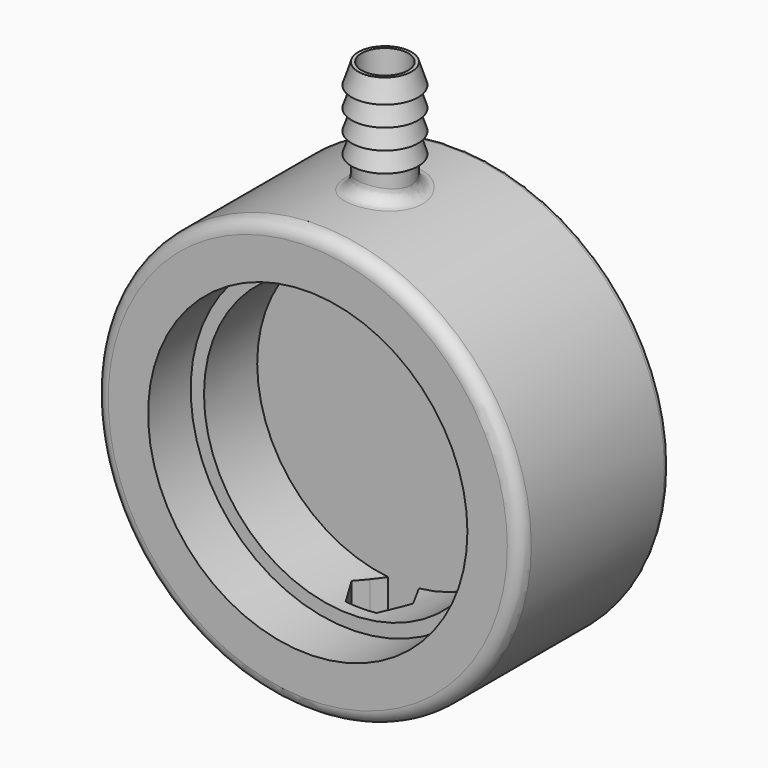
from build123d import *

# Parameters (mm, degrees)
F0_R           = 50.8
F1_DEPTH       = 44.45
F2_R           = 34.925
F3_DEPTH       = 28.575
F4_R           = 38.1
F5_DEPTH       = 12.7
F8_R           = 3.175
F9_R           = 1.5875
F12_DEPTH      = 25.4
F13_R          = 5.55625
F14_DEPTH      = 17.4625
F15_R          = 6.35
F15_R_2        = 5.55625
F16_DEPTH      = 26.67
F20_R          = 3.175
F22_W          = 73.025
F22_H          = 50.8
F23_DEPTH      = 9.525
F22_W_2        = 79.375
F22_H_2        = 57.15
F24_DEPTH      = 3.175
F24_DEPTH_BACK = 25.4


with BuildPart() as f1:
    # F0 (on Front) → F1 (new body)
    with BuildSketch(Plane.XZ):
        Circle(F0_R)
    extrude(amount=-F1_DEPTH)

    # F2 (on Front) → F3 (cut)
    with BuildSketch(Plane.XZ):
        Circle(F2_R)
    extrude(amount=-F3_DEPTH, mode=Mode.SUBTRACT)

    # F4 (on Front) → F5 (cut)
    with BuildSketch(Plane.XZ):
        Circle(F4_R)
    extrude(amount=-F5_DEPTH, mode=Mode.SUBTRACT)

    # F8
    f8_edges = [f1.edges().sort_by_distance(p)[0] for p in [
        (-50.8, 0, 0),
    ]]
    fillet(f8_edges, radius=F8_R)

    # F9
    f9_edges = [f1.edges().sort_by_distance(p)[0] for p in [
        (-50.8, 44.45, 0),
    ]]
    fillet(f9_edges, radius=F9_R)

    # F11 (on offset) → F12 (cut)
    with BuildSketch(Plane.XY.offset(-50.8)):
        with BuildLine():
            ThreePointArc((5.4992612052, 19.0499998116), (6.1336289688, 20.5814989585), (6.35, 22.225))
            ThreePointArc((6.35, 22.225), (6.1336290298, 23.8685008137), (5.4992614411, 25.3999997799))
            ThreePointArc((5.4992614411, 25.3999997799), (3.17500011, 27.7242612505), (0, 28.575))
            ThreePointArc((0, 28.575), (-3.1749999058, 27.7242613684), (-5.4992612052, 25.4000001884))
            ThreePointArc((-5.4992612052, 25.4000001884), (-6.35, 22.2249999281), (-5.4992611333, 19.049999687))
            ThreePointArc((-5.4992611333, 19.049999687), (-3.1749998435, 16.7257385956), (0, 15.875))
            ThreePointArc((0, 15.875), (3.1749999058, 16.7257386316), (5.4992612052, 19.0499998116))
        make_face()
        with BuildLine():
            ThreePointArc((0, 28.575), (3.17500011, 27.7242612505), (5.4992614411, 25.3999997799))
            Line((5.4992614411, 25.3999997799), (3.6661742094, 28.575))
            Line((3.6661742094, 28.575), (0, 28.575))
        make_face()
        with BuildLine():
            ThreePointArc((-5.4992612052, 25.4000001884), (-3.1749999058, 27.7242613684), (0, 28.575))
            Line((0, 28.575), (-3.6661742094, 28.575))
            Line((-3.6661742094, 28.575), (-5.4992612052, 25.4000001884))
        make_face()
        with BuildLine():
            ThreePointArc((-5.4992611333, 19.049999687), (-6.35, 22.2249999281), (-5.4992612052, 25.4000001884))
            Line((-5.4992612052, 25.4000001884), (-7.3323484187, 22.225))
            Line((-7.3323484187, 22.225), (-5.4992611333, 19.049999687))
        make_face()
        with BuildLine():
            Line((-3.6661742094, 15.875), (0, 15.875))
            ThreePointArc((0, 15.875), (-3.1749998435, 16.7257385956), (-5.4992611333, 19.049999687))
            Line((-5.4992611333, 19.049999687), (-3.6661742094, 15.875))
        make_face()
        with BuildLine():
            Line((3.6661742094, 15.875), (5.4992612052, 19.0499998116))
            ThreePointArc((5.4992612052, 19.0499998116), (3.1749999058, 16.7257386316), (0, 15.875))
            Line((0, 15.875), (3.6661742094, 15.875))
        make_face()
        with BuildLine():
            ThreePointArc((5.4992614411, 25.3999997799), (6.1336290298, 23.8685008137), (6.35, 22.225))
            ThreePointArc((6.35, 22.225), (6.1336289688, 20.5814989585), (5.4992612052, 19.0499998116))
            Line((5.4992612052, 19.0499998116), (7.3323484187, 22.225))
            Line((7.3323484187, 22.225), (5.4992614411, 25.3999997799))
        make_face()
    extrude(amount=F12_DEPTH, mode=Mode.SUBTRACT)

    # F13 (on offset) → F14 (cut)
    with BuildSketch(Plane.XY.offset(50.8)):
        with Locations((0, 23.01875)):
            Circle(F13_R)
    extrude(amount=-F14_DEPTH, mode=Mode.SUBTRACT)


with BuildPart() as f16:
    # F15 (on offset) → F16 (new body)
    with BuildSketch(Plane.XY.offset(50.8)):
        with Locations((0, 23.01875)):
            Circle(F15_R)
        with Locations((0, 23.01875)):
            Circle(F15_R_2, mode=Mode.SUBTRACT)
    extrude(amount=F16_DEPTH)


with BuildPart() as f16_1:
    # F18: moved
    add(f16.part.moved(Location((0, 0, -0.508))))

    # F19: union F1
    add(f1.part)

    # F20
    f20_edges = [f16_1.edges().sort_by_distance(p)[0] for p in [
        (-6.35, 23.01875, 50.401562),
    ]]
    fillet(f20_edges, radius=F20_R)

    # F17 (on Right) → F21 (revolve)
    with BuildSketch(Plane.YZ):
        Polygon((16.66875, 67.2536837804), (16.66875, 72.0792659992), (15.08125, 67.2536837804), align=None)
        Polygon((16.66875, 62.4281015617), (16.66875, 67.2536837804), (15.08125, 62.4281015617), align=None)
        Polygon((16.66875, 57.6025193429), (16.66875, 62.4281015617), (15.08125, 57.6025193429), align=None)
        Polygon((16.66875, 72.0792659992), (16.66875, 76.904848218), (15.08125, 72.0792659992), align=None)
    revolve(axis=Axis((0, 23.01875, 64.9531239529), (0, 0, -1)))

    # F22 (on offset) → F23 (cut)
    with BuildSketch(Plane.XZ.offset(-44.45)):
        Rectangle(F22_W, F22_H)
    extrude(amount=F23_DEPTH, mode=Mode.SUBTRACT)

    # F22 (on offset) → F24 (cut, two sides)
    with BuildSketch(Plane.XZ.offset(-44.45)) as f24_sk:
        Rectangle(F22_W_2, F22_H_2)
        Rectangle(F22_W, F22_H, mode=Mode.SUBTRACT)
    extrude(amount=F24_DEPTH, mode=Mode.SUBTRACT)
    extrude(f24_sk.sketch, amount=-F24_DEPTH_BACK, mode=Mode.SUBTRACT)


solid = f16_1.part
